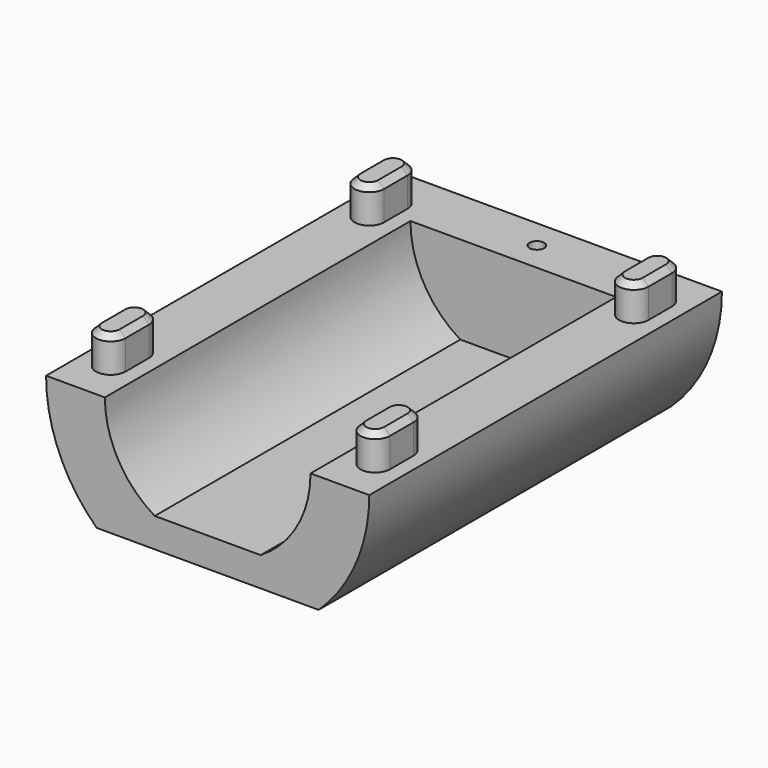
from build123d import *

# Parameters (mm, degrees)
F1_W      = 22
F1_H      = 30
F2_DEPTH  = 8
F4_DEPTH  = 30.001
F6_DEPTH  = 2.4
F7_SIZE   = 0.4
F9_DEPTH  = 26
F10_R     = 0.5
F11_DEPTH = 4


with BuildPart() as f2:
    # F1 (on Top) → F2 (new body)
    with BuildSketch(Plane.XY):
        with Locations((0, 15)):
            Rectangle(F1_W, F1_H)
    extrude(amount=-F2_DEPTH)

    # F3 (on face) → F4 (cut, through all)
    with BuildSketch(Plane.XZ):
        with BuildLine():
            ThreePointArc((-7.549834, -8), (-10.100697, -4.356135), (-11, 0))
            Line((-11, 0), (-11, -8))
            Line((-11, -8), (-7.549834, -8))
        make_face()
        with BuildLine():
            Line((11, -8), (11, 0))
            ThreePointArc((11, 0), (10.100697, -4.356135), (7.549834, -8))
            Line((7.549834, -8), (11, -8))
        make_face()
    extrude(amount=-F4_DEPTH, mode=Mode.SUBTRACT)

    # F5 (on face) → F6 (join)
    with BuildSketch(Plane.XY):
        with BuildLine():
            ThreePointArc((-8, 5), (-9, 6), (-10, 5))
            Line((-10, 5), (-10, 3))
            ThreePointArc((-10, 3), (-9, 2), (-8, 3))
            Line((-8, 3), (-8, 5))
        make_face()
        with BuildLine():
            ThreePointArc((10, 5), (9, 6), (8, 5))
            Line((8, 5), (8, 3))
            ThreePointArc((8, 3), (9, 2), (10, 3))
            Line((10, 3), (10, 5))
        make_face()
        with BuildLine():
            ThreePointArc((-8, 27), (-9, 28), (-10, 27))
            Line((-10, 27), (-10, 25))
            ThreePointArc((-10, 25), (-9, 24), (-8, 25))
            Line((-8, 25), (-8, 27))
        make_face()
        with BuildLine():
            ThreePointArc((10, 27), (9, 28), (8, 27))
            Line((8, 27), (8, 25))
            ThreePointArc((8, 25), (9, 24), (10, 25))
            Line((10, 25), (10, 27))
        make_face()
    extrude(amount=F6_DEPTH)

    # F7
    f7_edges = [f2.edges().sort_by_distance(p)[0] for p in [
        (-9, 6, 2.4),
        (-10, 4, 2.4),
        (-9, 2, 2.4),
        (-8, 4, 2.4),
        (9, 6, 2.4),
        (8, 4, 2.4),
        (9, 2, 2.4),
        (10, 4, 2.4),
        (-9, 28, 2.4),
        (-10, 26, 2.4),
        (-9, 24, 2.4),
        (-8, 26, 2.4),
        (9, 28, 2.4),
        (8, 26, 2.4),
        (9, 24, 2.4),
        (10, 26, 2.4),
    ]]
    chamfer(f7_edges, length=F7_SIZE)

    # F8 (on face) → F9 (cut)
    with BuildSketch(Plane.XZ):
        with BuildLine():
            Line((7, 0), (-7, 0))
            ThreePointArc((-7, 0), (-6.092572, -3.44682), (-3.605551, -6))
            Line((-3.605551, -6), (3.605551, -6))
            ThreePointArc((3.605551, -6), (6.092572, -3.44682), (7, 0))
        make_face()
    extrude(amount=-F9_DEPTH, mode=Mode.SUBTRACT)

    # F10 (on face) → F11 (cut)
    with BuildSketch(Plane.XY):
        with Locations((0, 28)):
            Circle(F10_R)
    extrude(amount=-F11_DEPTH, mode=Mode.SUBTRACT)


solid = f2.part
